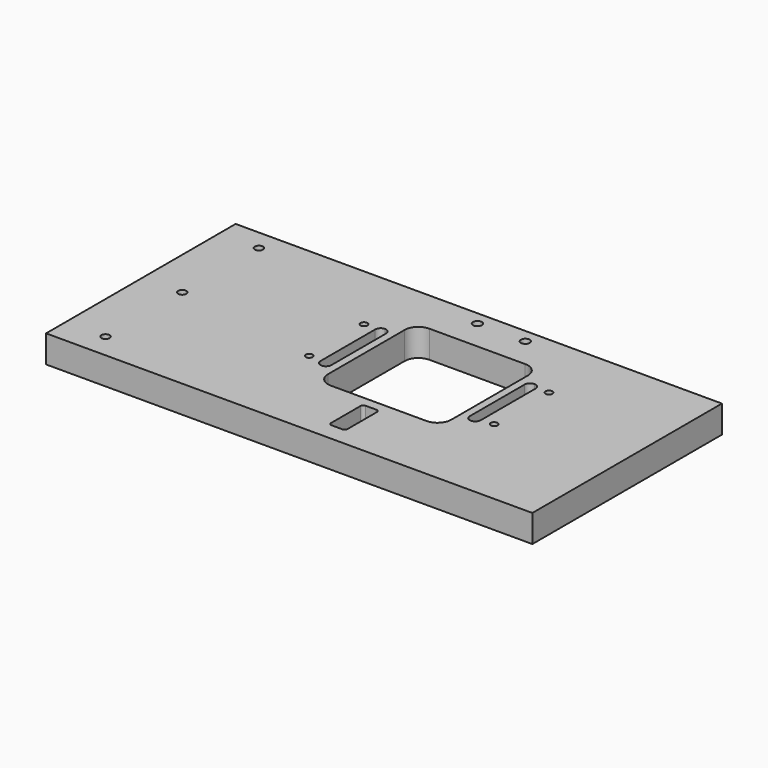
from build123d import *

# Parameters (mm, degrees)
F0_W     = 355
F0_H     = 173
F0_R     = 3
F0_R_2   = 2.5
F0_R_3   = 3.25
F1_DEPTH = 20
F2_R     = 4
F3_DEPTH = 20


with BuildPart() as f1:
    # F0 (on Top) → F1 (new body)
    with BuildSketch(Plane.XY):
        with Locations((177.5, 86.5)):
            Rectangle(F0_W, F0_H)
        with Locations((29, 18)):
            Circle(F0_R, mode=Mode.SUBTRACT)
        with Locations((134.5, 72)):
            Circle(F0_R_2, mode=Mode.SUBTRACT)
        with BuildLine():
            Line((206, 13), (198, 13))
            ThreePointArc((198, 13), (196.585786, 13.585786), (196, 15))
            Line((196, 15), (196, 42))
            ThreePointArc((196, 42), (196.585786, 43.414214), (198, 44))
            Line((198, 44), (206, 44))
            ThreePointArc((206, 44), (207.414214, 43.414214), (208, 42))
            Line((208, 42), (208, 15))
            ThreePointArc((208, 15), (207.414214, 13.585786), (206, 13))
        make_face(mode=Mode.SUBTRACT)
        with Locations((269.5, 72)):
            Circle(F0_R_2, mode=Mode.SUBTRACT)
        with Locations((29, 88)):
            Circle(F0_R, mode=Mode.SUBTRACT)
        with BuildLine():
            Line((151.5, 121), (151.5, 71))
            ThreePointArc((151.5, 71), (150.328427, 68.171573), (147.5, 67))
            ThreePointArc((147.5, 67), (144.671573, 68.171573), (143.5, 71))
            Line((143.5, 71), (143.5, 121))
            ThreePointArc((143.5, 121), (144.671573, 123.828427), (147.5, 125))
            ThreePointArc((147.5, 125), (150.328427, 123.828427), (151.5, 121))
        make_face(mode=Mode.SUBTRACT)
        with Locations((134.5, 122)):
            Circle(F0_R_2, mode=Mode.SUBTRACT)
        with Locations((29, 158)):
            Circle(F0_R, mode=Mode.SUBTRACT)
        with BuildLine():
            Line((237, 51), (167, 51))
            ThreePointArc((167, 51), (159.928932, 53.928932), (157, 61))
            Line((157, 61), (157, 131))
            ThreePointArc((157, 131), (159.928932, 138.071068), (167, 141))
            Line((167, 141), (237, 141))
            ThreePointArc((237, 141), (244.071068, 138.071068), (247, 131))
            Line((247, 131), (247, 61))
            ThreePointArc((247, 61), (244.071068, 53.928932), (237, 51))
        make_face(mode=Mode.SUBTRACT)
        with BuildLine():
            ThreePointArc((256.5, 67), (253.671573, 68.171573), (252.5, 71))
            Line((252.5, 71), (252.5, 121))
            ThreePointArc((252.5, 121), (253.671573, 123.828427), (256.5, 125))
            ThreePointArc((256.5, 125), (259.328427, 123.828427), (260.5, 121))
            Line((260.5, 121), (260.5, 71))
            ThreePointArc((260.5, 71), (259.328427, 68.171573), (256.5, 67))
        make_face(mode=Mode.SUBTRACT)
        with Locations((269.5, 122)):
            Circle(F0_R_2, mode=Mode.SUBTRACT)
        with Locations((184.5, 163)):
            Circle(F0_R_3, mode=Mode.SUBTRACT)
        with Locations((219.5, 163)):
            Circle(F0_R_3, mode=Mode.SUBTRACT)
    extrude(amount=F1_DEPTH)

    # F2 (on face) → F3 (cut)
    with BuildSketch(Plane(origin=(0, 0, 0), x_dir=(0, -1, 0), z_dir=(-1, 0, 0))):
        with Locations((-150.5, 10)):
            Circle(F2_R)
        with Locations((-80.5, 10)):
            Circle(F2_R)
        with Locations((-10.5, 10)):
            Circle(F2_R)
    extrude(amount=-F3_DEPTH, mode=Mode.SUBTRACT)


solid = f1.part
